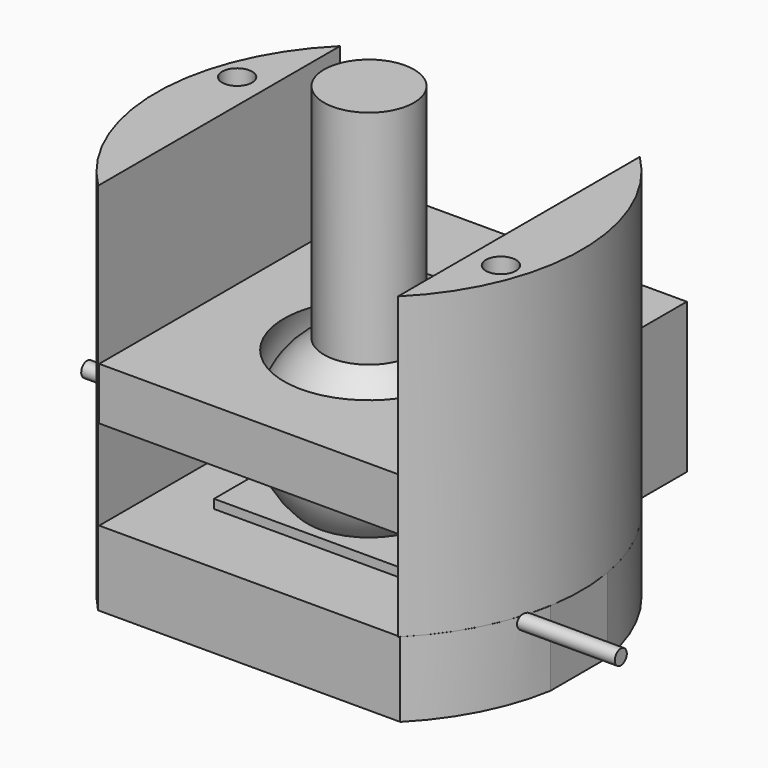
from build123d import *

# Parameters (mm, degrees)
CYLINDER002_R           = 0.25
CYLINDER002_DEPTH       = 10
CYLINDER002_PITCH_ANGLE = 90
CYLINDER001_R           = 0.25
CYLINDER001_DEPTH       = 10
CYLINDER001_PITCH_ANGLE = 90
BOX_W                   = 6.5
BOX_H                   = 4.8
BOX_DEPTH               = 1
BOX004_W                = 10
BOX004_H                = 3
BOX004_DEPTH            = 5
CYLINDER_R              = 1.5
CYLINDER_DEPTH          = 10
CYLINDER008_R           = 7.1
CYLINDER008_DEPTH       = 10
BOX005_W                = 21
BOX005_H                = 17
BOX005_DEPTH            = 8
CYLINDER005_R           = 2.5
CYLINDER005_DEPTH       = 10
CYLINDER004_R           = 0.25
CYLINDER004_DEPTH       = 10
CYLINDER004_PITCH_ANGLE = 90
CYLINDER003_R           = 0.25
CYLINDER003_DEPTH       = 10
CYLINDER003_PITCH_ANGLE = 90
BOX002_W                = 6.5
BOX002_H                = 4.8
BOX002_DEPTH            = 1
BOX003_W                = 10
BOX003_H                = 12
BOX003_DEPTH            = 3
BOX001_W                = 14
BOX001_H                = 10
BOX001_DEPTH            = 7.25
CYLINDER010_R           = 0.5
CYLINDER010_DEPTH       = 13
CYLINDER009_R           = 0.5
CYLINDER009_DEPTH       = 13
CYLINDER007_R           = 7.1
CYLINDER007_DEPTH       = 10
BOX006_W                = 21
BOX006_H                = 17
BOX006_DEPTH            = 12
BOX007_W                = 10
BOX007_H                = 20
BOX007_DEPTH            = 10
CYLINDER006_R           = 7.1
CYLINDER006_DEPTH       = 10


with BuildPart() as cylinder002:
    # Cylinder002 → Cylinder002 (new body)
    with BuildSketch(Plane.XY):
        Circle(CYLINDER002_R)
    extrude(amount=CYLINDER002_DEPTH)


with BuildPart() as cylinder002_1:
    # Cylinder002 pitch: moved
    add(cylinder002.part.rotate(Axis((0, 0, 0), (0, 1, 0)), CYLINDER002_PITCH_ANGLE))


with BuildPart() as cylinder002_2:
    # Cylinder002 placement: moved
    add(cylinder002_1.part.moved(Location((0, -2, -3.7))))


with BuildPart() as fusion002:
    # Cylinder001 → Cylinder001 (new body)
    with BuildSketch(Plane.XY):
        Circle(CYLINDER001_R)
    extrude(amount=CYLINDER001_DEPTH)


with BuildPart() as fusion002_1:
    # Cylinder001 pitch: moved
    add(fusion002.part.rotate(Axis((0, 0, 0), (0, 1, 0)), CYLINDER001_PITCH_ANGLE))


with BuildPart() as fusion002_2:
    # Cylinder001 placement: moved
    add(fusion002_1.part.moved(Location((-11, 2, -3.7))))

    # Fusion002: union Cylinder002
    add(cylinder002_2.part)


with BuildPart() as switch:
    # Box → Box (new body)
    with BuildSketch(Plane(origin=(-3.25, -2.4, -4.2), x_dir=(1, 0, 0), z_dir=(0, 0, 1))):
        with Locations((3.25, 2.4)):
            Rectangle(BOX_W, BOX_H)
    extrude(amount=BOX_DEPTH)

    # Fusion003: union Fusion002
    add(fusion002_2.part)


with BuildPart() as cube004:
    # Box004 → Box004 (new body)
    with BuildSketch(Plane(origin=(-5, 4, -3.55), x_dir=(1, 0, 0), z_dir=(0, 0, 1))):
        with Locations((5, 1.5)):
            Rectangle(BOX004_W, BOX004_H)
    extrude(amount=BOX004_DEPTH)


with BuildPart() as cylinder:
    # Cylinder → Cylinder (new body)
    with BuildSketch(Plane.XY):
        Circle(CYLINDER_R)
    extrude(amount=CYLINDER_DEPTH)


with BuildPart() as ball_and_screw:
    # Sphere → Sphere (revolve)
    with BuildSketch(Plane.XZ):
        with BuildLine():
            ThreePointArc((0, -3), (3, 0), (0, 3))
            Line((0, 3), (0, -3))
        make_face()
    revolve(axis=Axis((0, 0, 0), (0, 0, 1)))

    # Fusion005: union Cylinder
    add(cylinder.part)


with BuildPart() as ball_and_screw_1:
    # Fusion005 placement: moved
    add(ball_and_screw.part.moved(Location((0, 0, -1))))


with BuildPart() as cylinder008:
    # Cylinder008 → Cylinder008 (new body)
    with BuildSketch(Plane.XY.offset(-6.5)):
        Circle(CYLINDER008_R)
    extrude(amount=CYLINDER008_DEPTH)


with BuildPart() as cube005:
    # Box005 → Box005 (new body)
    with BuildSketch(Plane(origin=(-9, -7, -3.5), x_dir=(1, 0, 0), z_dir=(0, 0, 1))):
        with Locations((10.5, 8.5)):
            Rectangle(BOX005_W, BOX005_H)
    extrude(amount=BOX005_DEPTH)


with BuildPart() as cylinder005:
    # Cylinder005 → Cylinder005 (new body)
    with BuildSketch(Plane.XY.offset(0.5)):
        Circle(CYLINDER005_R)
    extrude(amount=CYLINDER005_DEPTH)


with BuildPart() as fusion004:
    # Sphere001 → Sphere001 (revolve)
    with BuildSketch(Plane.XZ):
        with BuildLine():
            ThreePointArc((0, -3.1), (3.1, 0), (0, 3.1))
            Line((0, 3.1), (0, -3.1))
        make_face()
    revolve(axis=Axis((0, 0, 0), (0, 0, 1)))

    # Fusion004: union Cylinder005
    add(cylinder005.part)


with BuildPart() as cylinder004:
    # Cylinder004 → Cylinder004 (new body)
    with BuildSketch(Plane.XY):
        Circle(CYLINDER004_R)
    extrude(amount=CYLINDER004_DEPTH)


with BuildPart() as cylinder004_1:
    # Cylinder004 pitch: moved
    add(cylinder004.part.rotate(Axis((0, 0, 0), (0, 1, 0)), CYLINDER004_PITCH_ANGLE))


with BuildPart() as cylinder004_2:
    # Cylinder004 placement: moved
    add(cylinder004_1.part.moved(Location((0, -2, -3.7))))


with BuildPart() as fusion:
    # Cylinder003 → Cylinder003 (new body)
    with BuildSketch(Plane.XY):
        Circle(CYLINDER003_R)
    extrude(amount=CYLINDER003_DEPTH)


with BuildPart() as fusion_1:
    # Cylinder003 pitch: moved
    add(fusion.part.rotate(Axis((0, 0, 0), (0, 1, 0)), CYLINDER003_PITCH_ANGLE))


with BuildPart() as fusion_2:
    # Cylinder003 placement: moved
    add(fusion_1.part.moved(Location((-11, 2, -3.7))))

    # Fusion: union Cylinder004
    add(cylinder004_2.part)


with BuildPart() as fusion001:
    # Box002 → Box002 (new body)
    with BuildSketch(Plane(origin=(-3.25, -2.4, -4.2), x_dir=(1, 0, 0), z_dir=(0, 0, 1))):
        with Locations((3.25, 2.4)):
            Rectangle(BOX002_W, BOX002_H)
    extrude(amount=BOX002_DEPTH)

    # Fusion001: union Fusion
    add(fusion_2.part)


with BuildPart() as cube003:
    # Box003 → Box003 (new body)
    with BuildSketch(Plane(origin=(-5, -6, -3.5), x_dir=(1, 0, 0), z_dir=(0, 0, 1))):
        with Locations((5, 6)):
            Rectangle(BOX003_W, BOX003_H)
    extrude(amount=BOX003_DEPTH)


with BuildPart() as cut001:
    # Box001 → Box001 (new body)
    with BuildSketch(Plane(origin=(-7, -5, -6), x_dir=(1, 0, 0), z_dir=(0, 0, 1))):
        with Locations((7, 5)):
            Rectangle(BOX001_W, BOX001_H)
    extrude(amount=BOX001_DEPTH)

    # Cut: cut Cube003
    add(cube003.part, mode=Mode.SUBTRACT)

    # Cut001: cut Fusion001
    add(fusion001.part, mode=Mode.SUBTRACT)


with BuildPart() as common002:
    # Cut003 base: copy of Cut001
    add(cut001.part)

    # Cut003: cut Fusion004
    add(fusion004.part, mode=Mode.SUBTRACT)

    # Cut004: cut Cube005
    add(cube005.part, mode=Mode.SUBTRACT)

    # Common002: intersect Cylinder008
    add(cylinder008.part, mode=Mode.INTERSECT)


with BuildPart() as cylinder010:
    # Cylinder010 → Cylinder010 (new body)
    with BuildSketch(Plane(origin=(6, -2, -4), x_dir=(1, 0, 0), z_dir=(0, 0, 1))):
        Circle(CYLINDER010_R)
    extrude(amount=CYLINDER010_DEPTH)


with BuildPart() as cylinder009:
    # Cylinder009 → Cylinder009 (new body)
    with BuildSketch(Plane(origin=(-6, 2, -4), x_dir=(1, 0, 0), z_dir=(0, 0, 1))):
        Circle(CYLINDER009_R)
    extrude(amount=CYLINDER009_DEPTH)


with BuildPart() as cylinder007:
    # Cylinder007 → Cylinder007 (new body)
    with BuildSketch(Plane.XY.offset(-3.5)):
        Circle(CYLINDER007_R)
    extrude(amount=CYLINDER007_DEPTH)


with BuildPart() as cube006:
    # Box006 → Box006 (new body)
    with BuildSketch(Plane(origin=(-9, -7, -3.5), x_dir=(1, 0, 0), z_dir=(0, 0, 1))):
        with Locations((10.5, 8.5)):
            Rectangle(BOX006_W, BOX006_H)
    extrude(amount=BOX006_DEPTH)


with BuildPart() as common001:
    # Cut002 base: copy of Cut001
    add(cut001.part)

    # Cut002: cut Fusion004
    add(fusion004.part, mode=Mode.SUBTRACT)

    # Common: intersect Cube006
    add(cube006.part, mode=Mode.INTERSECT)

    # Common001: intersect Cylinder007
    add(cylinder007.part, mode=Mode.INTERSECT)


with BuildPart() as cube007:
    # Box007 → Box007 (new body)
    with BuildSketch(Plane(origin=(-5, -9, -3.5), x_dir=(1, 0, 0), z_dir=(0, 0, 1))):
        with Locations((5, 10)):
            Rectangle(BOX007_W, BOX007_H)
    extrude(amount=BOX007_DEPTH)


with BuildPart() as cut007:
    # Cylinder006 → Cylinder006 (new body)
    with BuildSketch(Plane.XY.offset(-3.5)):
        Circle(CYLINDER006_R)
    extrude(amount=CYLINDER006_DEPTH)

    # Cut005: cut Cube007
    add(cube007.part, mode=Mode.SUBTRACT)

    # Fusion006: union Common001
    add(common001.part)

    # Cut006: cut Cylinder009
    add(cylinder009.part, mode=Mode.SUBTRACT)

    # Cut007: cut Cylinder010
    add(cylinder010.part, mode=Mode.SUBTRACT)


solid = Compound([switch.part, cube004.part, ball_and_screw_1.part, common002.part, cut007.part])
